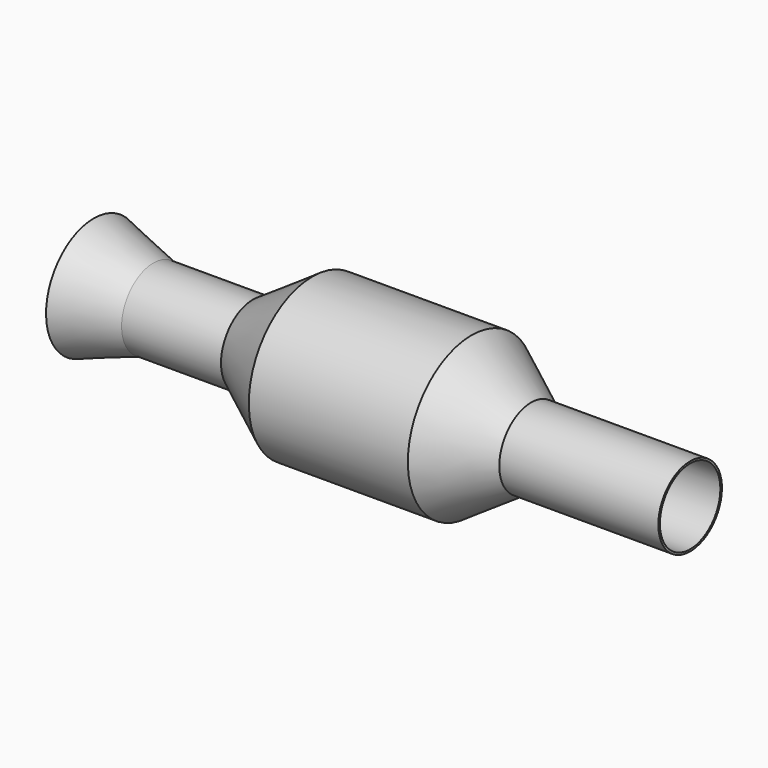
from build123d import *

# Parameters (mm, degrees)
F2_T = -2.54


with BuildPart() as f1:
    # F0 (on Front) → F1 (revolve)
    with BuildSketch(Plane.XZ):
        Polygon((-381, 0), (381, 0), (381, 50.8), (177.8, 50.8), (101.6, 101.6), (-101.6, 101.6), (-177.8, 50.8), (-304.8, 50.8), (-381, 76.2), align=None)
    revolve(axis=Axis((0, 0, 0), (1, 0, 0)))

    # F2
    f2_openings = [f1.faces().sort_by_distance(p)[0] for p in [
        (-381, 0, 0),
        (381, 0, 0),
    ]]
    offset(amount=F2_T, openings=f2_openings, kind=Kind.INTERSECTION)


solid = f1.part
